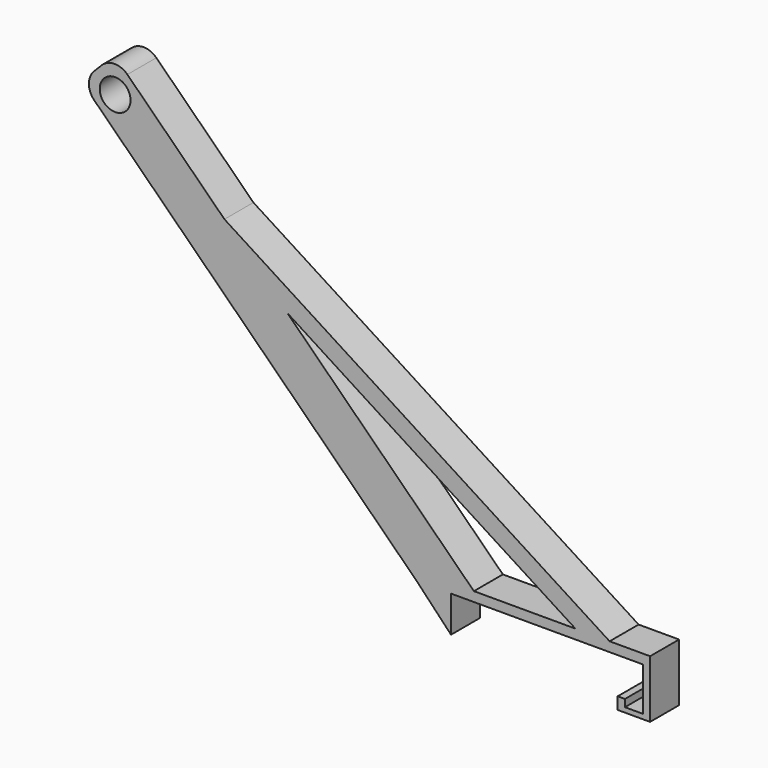
from build123d import *

# Parameters (mm, degrees)
F0_W     = 9.5021461621
F0_H     = 2.6417713279
F2_DEPTH = 10
F1_R     = 4.25
F4_DEPTH = 10


with BuildPart() as f2:
    # F0 (on Front) → F2 (new body)
    with BuildSketch(Plane.XZ):
        Polygon((-1.2758228406, -32.4617078483), (-1.2758228406, -35.7812091163), (7.6683001402, -35.7812091163), (7.6683001402, -19.8199365203), (-47.2758228406, -19.8199365203), (-47.2758228406, -22.4617078483), (5.7241771594, -22.4617078483), (5.7241771594, -34.4617078483), (0.7241771594, -34.4617078483), (0.7241771594, -32.4617078483), align=None)
        with Locations((-52.0268959217, -21.1408221843)):
            Rectangle(F0_W, F0_H)
        Polygon((-47.2758228406, -32.4617078483), (-47.2758228406, -22.4617078483), (-56.7779690027, -22.4617078483), align=None)
    extrude(amount=F2_DEPTH)



with BuildPart() as f2b:
    # F1 (on Front) → F2, piece 2 (new body)
    with BuildSketch(Plane.XZ):
        with BuildLine():
            Line((-145.7300181234, 65.3582332276), (-56.7768959217, -22.4617078483))
            Line((-56.7768959217, -22.4617078483), (-40.5840538442, -20.1916061342))
            Line((-40.5840538442, -20.1916061342), (-136.6024373877, 74.6035913392))
            ThreePointArc((-136.6024373877, 74.6035913392), (-140.1472862331, 76.0453637221), (-143.6733599188, 74.5582640942))
            Line((-143.6733599188, 74.5582640942), (-145.7753453684, 72.4291557587))
            ThreePointArc((-145.7753453684, 72.4291557587), (-147.2171177514, 68.8843069133), (-145.7300181234, 65.3582332276))
        make_face()
        with Locations((-139.9780238936, 68.6254584758)):
            Circle(F1_R, mode=Mode.SUBTRACT)
    extrude(amount=F2_DEPTH)


with BuildPart() as f2_1:
    add(f2.part)

    add(f2b.part)  # F4 merges F2b
    # F3 (on Front) → F4 (join)
    with BuildSketch(Plane.XZ):
        Polygon((-2.4996690918, -20.4601678997), (-118.4480087704, 53.6740520599), (-116.2248924375, 46.2126098573), (-11.9464918971, -20.4601678997), align=None)
    extrude(amount=F4_DEPTH)


solid = f2_1.part
